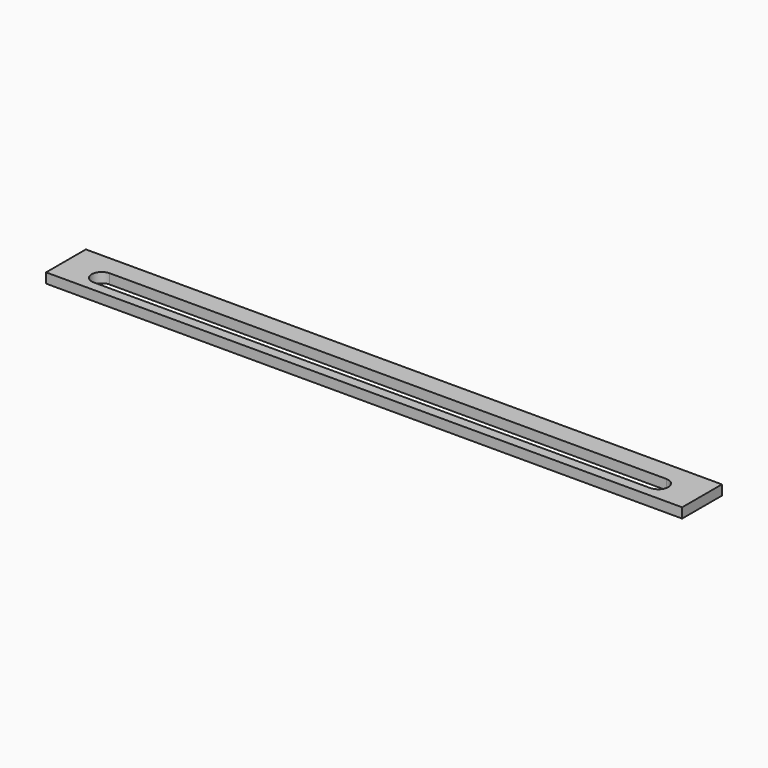
from build123d import *

# Parameters (mm, degrees)
F0_W     = 203.2
F0_H     = 15.875
F1_DEPTH = 3.175


with BuildPart() as f1:
    # F0 (on Top) → F1 (new body)
    with BuildSketch(Plane.XY):
        with Locations((-101.6, 7.9375)):
            Rectangle(F0_W, F0_H)
        with BuildLine():
            ThreePointArc((-190.5, 3.175), (-193.675, 6.35), (-190.5, 9.525))
            Line((-190.5, 9.525), (-12.7, 9.525))
            ThreePointArc((-12.7, 9.525), (-9.525, 6.35), (-12.7, 3.175))
            Line((-12.7, 3.175), (-190.5, 3.175))
        make_face(mode=Mode.SUBTRACT)
    extrude(amount=F1_DEPTH)


solid = f1.part
